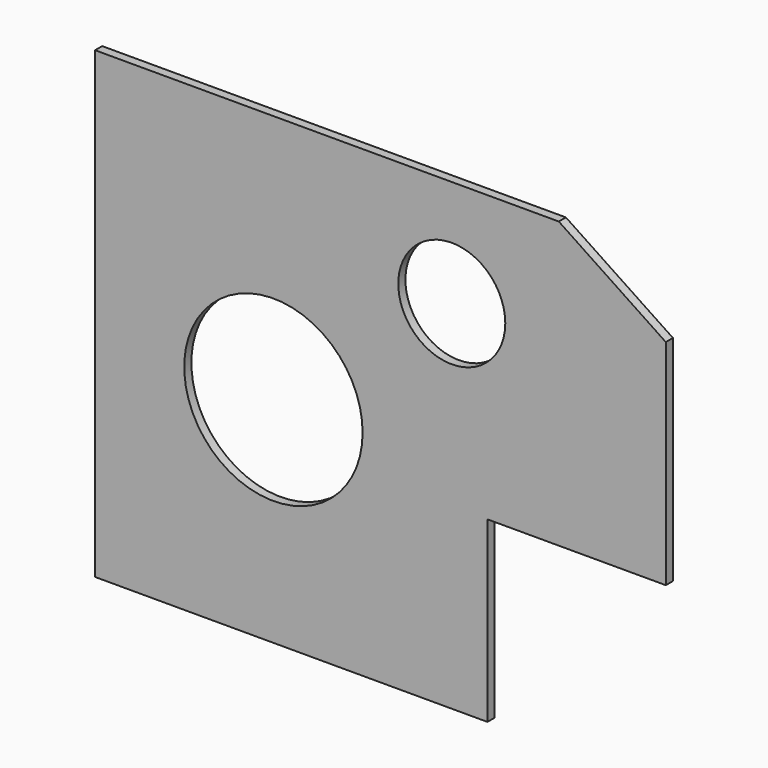
from build123d import *

# Parameters (mm, degrees)
F0_R     = 31.75
F0_R_2   = 19.05
F1_DEPTH = 3.175


with BuildPart() as f1:
    # F0 (on Front) → F1 (new body)
    with BuildSketch(Plane.XZ):
        Polygon((0, 76.2), (0, 0), (63.5, 0), (139.7, 0), (139.7, 63.5), (203.2, 63.5), (203.2, 139.7), (165.1, 165.1), (127, 165.1), (0, 165.1), (0, 127), align=None)
        with Locations((63.5, 76.2)):
            Circle(F0_R, mode=Mode.SUBTRACT)
        with Locations((127, 127)):
            Circle(F0_R_2, mode=Mode.SUBTRACT)
    extrude(amount=F1_DEPTH)


solid = f1.part
